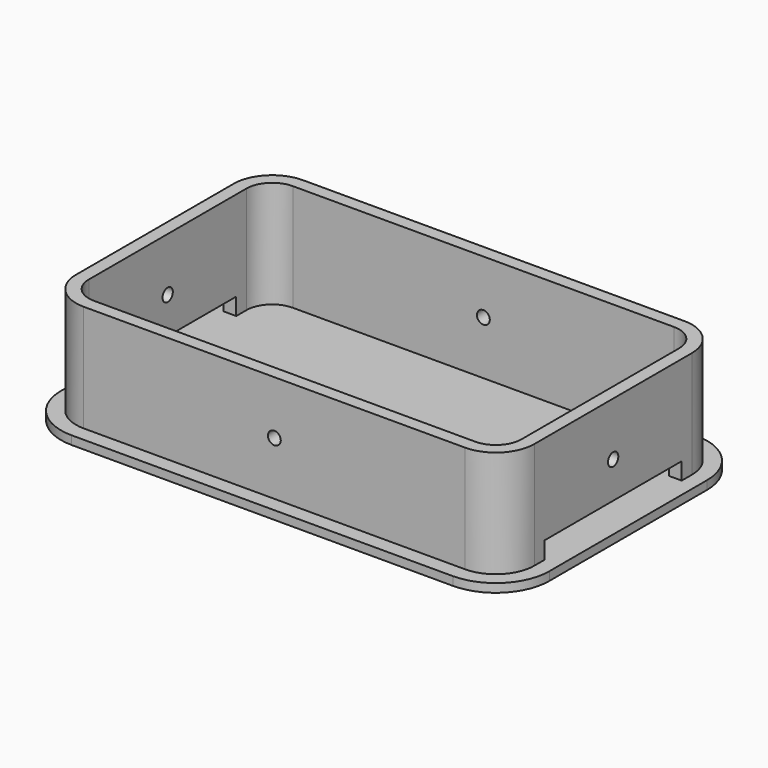
from build123d import *

# Parameters (mm, degrees)
PAD001_DEPTH         = 2
PAD003_DEPTH         = 27
SKETCH_R             = 1.5
POCKET_DEPTH         = 309.479101
SKETCH004_W          = 40
SKETCH004_H          = 4
POCKET001_DEPTH      = 57.001
POCKET001_DEPTH_BACK = -57.001
POLARPATTERN_COUNT   = 4


with BuildPart() as part:
    # Sketch001 → Pad001 (new body)
    with BuildSketch(Plane.XY):
        with BuildLine():
            Line((-57, 23), (-57, -23))
            ThreePointArc((-57, -23), (-53.338835, -31.838835), (-44.5, -35.5))
            Line((-44.5, -35.5), (44.5, -35.5))
            ThreePointArc((44.5, -35.5), (53.338835, -31.838835), (57, -23))
            Line((57, -23), (57, 23))
            ThreePointArc((57, 23), (53.338835, 31.838835), (44.5, 35.5))
            Line((44.5, 35.5), (-44.5, 35.5))
            ThreePointArc((-44.5, 35.5), (-53.338835, 31.838835), (-57, 23))
        make_face()
    extrude(amount=PAD001_DEPTH)

    # Sketch003 → Pad003 (join)
    with BuildSketch(Plane.XY):
        with BuildLine():
            Line((-44.5, 32), (44.5, 32))
            ThreePointArc((53.5, 23), (50.863961, 29.363961), (44.5, 32))
            Line((53.5, 23), (53.5, -23))
            ThreePointArc((44.5, -32), (50.863961, -29.363961), (53.5, -23))
            Line((44.5, -32), (-44.5, -32))
            ThreePointArc((-53.5, -23), (-50.863961, -29.363961), (-44.5, -32))
            Line((-53.5, -23), (-53.5, 23))
            ThreePointArc((-44.5, 32), (-50.863961, 29.363961), (-53.5, 23))
        make_face()
        with BuildLine():
            Line((-50.5, 23), (-50.5, -23))
            ThreePointArc((-50.5, -23), (-48.742641, -27.242641), (-44.5, -29))
            Line((-44.5, -29), (44.5, -29))
            ThreePointArc((44.5, -29), (48.742641, -27.242641), (50.5, -23))
            Line((50.5, -23), (50.5, 23))
            ThreePointArc((50.5, 23), (48.742641, 27.242641), (44.5, 29))
            Line((44.5, 29), (-44.5, 29))
            ThreePointArc((-44.5, 29), (-48.742641, 27.242641), (-50.5, 23))
        make_face(mode=Mode.SUBTRACT)
    extrude(amount=PAD003_DEPTH)

    # Sketch → Pocket (cut, through all)
    with BuildSketch(Plane.XZ):
        with Locations((0, 14.5)):
            Circle(SKETCH_R)
    pocket = extrude(amount=-POCKET_DEPTH, mode=Mode.SUBTRACT)

    # Sketch004 → Pocket001 (cut, two sides)
    with BuildSketch(Plane.YZ) as pocket001_sk:
        with Locations((0, 4)):
            Rectangle(SKETCH004_W, SKETCH004_H)
    extrude(amount=-POCKET001_DEPTH, mode=Mode.SUBTRACT)
    extrude(pocket001_sk.sketch, amount=-POCKET001_DEPTH_BACK, mode=Mode.SUBTRACT)

    # PolarPattern: Pocket ×4 about axis
    polarpattern_axis = Axis((0, 0, 0), (0, 0, 1))
    for i in range(1, POLARPATTERN_COUNT):
        add(pocket.rotate(polarpattern_axis, i * 360 / POLARPATTERN_COUNT), mode=Mode.SUBTRACT)


solid = part.part
